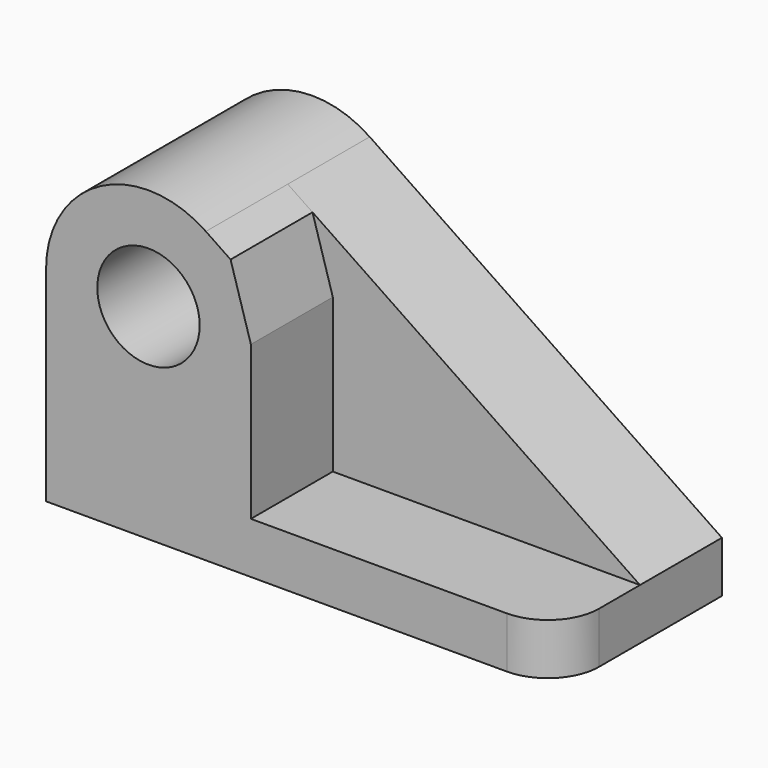
from build123d import *

# Parameters (mm, degrees)
F0_R     = 12.7
F1_DEPTH = 25.4
F2_R     = 12.7
F3_DEPTH = 25.4
F4_R     = 12.7


with BuildPart() as f1:
    # F0 (on Front) → F1 (new body)
    with BuildSketch(Plane.XZ):
        with BuildLine():
            Line((62.883959, -22.474932), (-24.478167, 36.659396))
            ThreePointArc((-24.478167, 36.659396), (-50.6223, 38.061667), (-64.116041, 15.625068))
            Line((-64.116041, 15.625068), (-64.116041, -35.174932))
            Line((-64.116041, -35.174932), (62.883959, -35.174932))
            Line((62.883959, -35.174932), (62.883959, -22.474932))
        make_face()
        with Locations((-38.716041, 15.625068)):
            Circle(F0_R, mode=Mode.SUBTRACT)
    extrude(amount=F1_DEPTH)

    # F2 (on face) → F3 (join)
    with BuildSketch(Plane.XZ.offset(25.4)):
        with BuildLine():
            Line((62.883959, -35.174932), (62.883959, -22.474932))
            Line((62.883959, -22.474932), (-13.316041, -22.474932))
            Line((-13.316041, -22.474932), (-13.316041, 15.625068))
            Line((-13.316041, 15.625068), (-18.351755, 32.512504))
            Line((-18.351755, 32.512504), (-24.478167, 36.659396))
            ThreePointArc((-24.478167, 36.659396), (-50.6223, 38.061667), (-64.116041, 15.625068))
            Line((-64.116041, 15.625068), (-64.116041, -22.474932))
            Line((-64.116041, -22.474932), (-64.116041, -35.174932))
            Line((-64.116041, -35.174932), (62.883959, -35.174932))
        make_face()
        with Locations((-38.716041, 15.625068)):
            Circle(F2_R, mode=Mode.SUBTRACT)
    extrude(amount=F3_DEPTH)

    # F4
    f4_edges = [f1.edges().sort_by_distance(p)[0] for p in [
        (62.883959, -50.8, -28.824932),
    ]]
    fillet(f4_edges, radius=F4_R)


solid = f1.part
